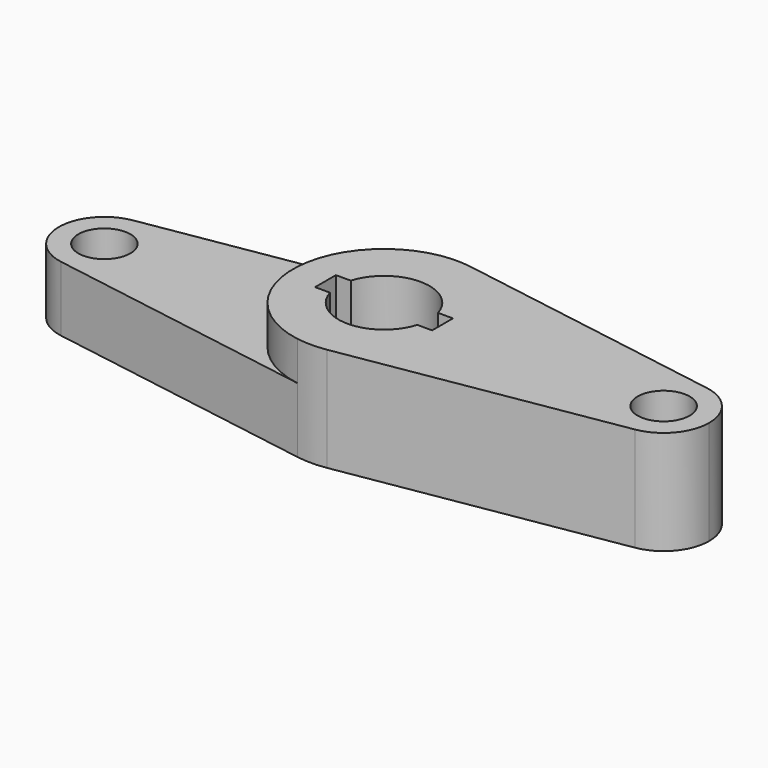
from build123d import *

# Parameters (mm, degrees)
F0_R     = 10
F1_DEPTH = 40
F2_DEPTH = 25


with BuildPart() as f1:
    # F0 (on Top) → F1 (new body)
    with BuildSketch(Plane.XY):
        with BuildLine():
            ThreePointArc((5.697674, -34.533122), (26.68725, -22.644882), (35, 0))
            ThreePointArc((35, 0), (26.68725, 22.644882), (5.697674, 34.533122))
            ThreePointArc((5.697674, 34.533122), (0, 35), (-5.697674, 34.533122))
            ThreePointArc((-5.697674, 34.533122), (-35, 0), (-5.697674, -34.533122))
            ThreePointArc((-5.697674, -34.533122), (0, -35), (5.697674, -34.533122))
        make_face()
        with BuildLine():
            ThreePointArc((-16.77051, 5), (0, 17.5), (16.77051, 5))
            Line((16.77051, 5), (22.5, 5))
            Line((22.5, 5), (22.5, -5))
            Line((22.5, -5), (16.77051, -5))
            ThreePointArc((16.77051, -5), (0, -17.5), (-16.77051, -5))
            Line((-16.77051, -5), (-22.5, -5))
            Line((-22.5, -5), (-22.5, 5))
            Line((-22.5, 5), (-16.77051, 5))
        make_face(mode=Mode.SUBTRACT)
        with BuildLine():
            ThreePointArc((5.697674, 34.533122), (26.68725, 22.644882), (35, 0))
            ThreePointArc((35, 0), (26.68725, -22.644882), (5.697674, -34.533122))
            Line((5.697674, -34.533122), (110.348837, -17.266561))
            ThreePointArc((110.348837, -17.266561), (90, 0), (110.348837, 17.266561))
            Line((110.348837, 17.266561), (5.697674, 34.533122))
        make_face()
        with BuildLine():
            ThreePointArc((125, 0), (120.843625, 11.322441), (110.348837, 17.266561))
            ThreePointArc((110.348837, 17.266561), (90, 0), (110.348837, -17.266561))
            ThreePointArc((110.348837, -17.266561), (120.843625, -11.322441), (125, 0))
        make_face()
        with Locations((107.5, 0)):
            Circle(F0_R, mode=Mode.SUBTRACT)
    extrude(amount=F1_DEPTH)

    # F0 (on Top) → F2 (join)
    with BuildSketch(Plane.XY):
        with BuildLine():
            ThreePointArc((-5.697674, -34.533122), (-35, 0), (-5.697674, 34.533122))
            Line((-5.697674, 34.533122), (-110.348837, 17.266561))
            ThreePointArc((-110.348837, 17.266561), (-96.177559, 13.343625), (-90, 0))
            ThreePointArc((-90, 0), (-96.177559, -13.343625), (-110.348837, -17.266561))
            Line((-110.348837, -17.266561), (-5.697674, -34.533122))
        make_face()
        with BuildLine():
            ThreePointArc((-90, 0), (-96.177559, 13.343625), (-110.348837, 17.266561))
            ThreePointArc((-110.348837, 17.266561), (-125, 0), (-110.348837, -17.266561))
            ThreePointArc((-110.348837, -17.266561), (-96.177559, -13.343625), (-90, 0))
        make_face()
        with Locations((-107.5, 0)):
            Circle(F0_R, mode=Mode.SUBTRACT)
    extrude(amount=F2_DEPTH)


solid = f1.part
